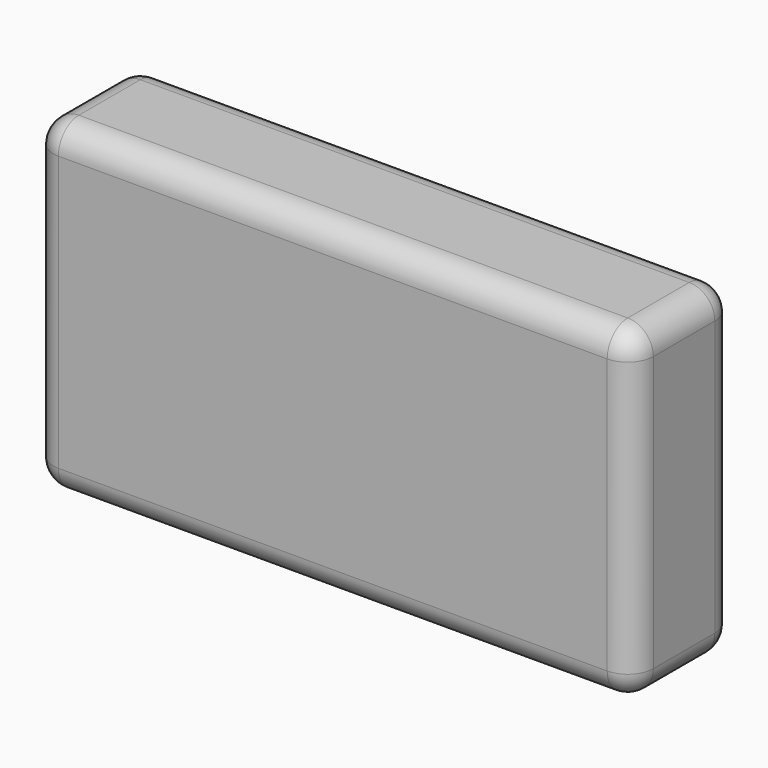
from build123d import *

# Parameters (mm, degrees)
F0_W     = 119.039789
F0_H     = 64.663587
F1_DEPTH = 25.4
F2_R     = 5.08
F3_R     = 5.08


with BuildPart() as f1:
    # F0 (on Front) → F1 (new body)
    with BuildSketch(Plane.XZ):
        with Locations((-1.224685, -2.204438)):
            Rectangle(F0_W, F0_H)
    extrude(amount=F1_DEPTH)

    # F2
    f2_edges = [f1.edges().sort_by_distance(p)[0] for p in [
        (58.295209, -12.7, 30.127356),
        (58.295209, -12.7, -34.536231),
        (-60.74458, -12.7, 30.127356),
        (-60.74458, -12.7, -34.536231),
    ]]
    fillet(f2_edges, radius=F2_R)

    # F3
    f3_edges = [f1.edges().sort_by_distance(p)[0] for p in [
        (-60.74458, -25.4, -2.204438),
        (-60.74458, 0, -2.204438),
    ]]
    fillet(f3_edges, radius=F3_R)


solid = f1.part
